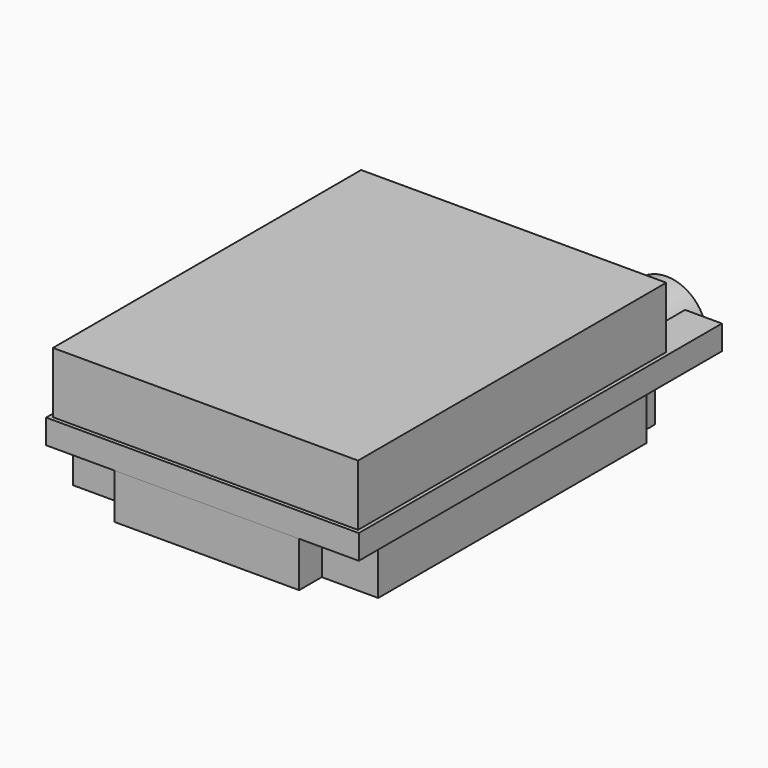
from build123d import *

# Parameters (mm, degrees)
F1_W     = 9.4
F1_H     = 4
F2_DEPTH = 1.6
F4_W     = 15.8
F4_H     = 1.85
F4_W_2   = 12.1
F5_DEPTH = 3
F6_R     = 2.625
F7_DEPTH = 4.96
F8_W     = 20
F8_H     = 25.25
F9_DEPTH = 4


with BuildPart() as f2:
    # F1 (on offset) → F2 (new body)
    with BuildSketch(Plane.XY.offset(3)):
        Polygon((0.85, 12.875), (-10.25, 12.875), (-10.25, -12.875), (10.25, -12.875), (10.25, 12.875), align=None)
        with Locations((5.55, 14.875)):
            Rectangle(F1_W, F1_H)
    extrude(amount=F2_DEPTH)



with BuildPart() as f5:
    # F4 (on offset) → F5 (new body)
    with BuildSketch(Plane.XY):
        Polygon((10, -10.975), (10, 11.025), (9.05, 11.025), (-6.75, 11.025), (-10, 11.025), (-10, -10.975), (-5.8, -10.975), (6.3, -10.975), align=None)
        with Locations((1.15, 11.95)):
            Rectangle(F4_W, F4_H)
        with Locations((0.25, -11.9)):
            Rectangle(F4_W_2, F4_H)
    extrude(amount=F5_DEPTH)


with BuildPart() as f2_1:
    add(f2.part)

    add(f5.part)  # F7 merges F5
    # F6 (on face) → F7 (join)
    with BuildSketch(Plane(origin=(0, 12.875, 0), x_dir=(-1, 0, 0), z_dir=(0, 1, 0))):
        with Locations((-5.855308, 2.875)):
            Circle(F6_R)
    extrude(amount=F7_DEPTH)

    # F8 (on face) → F9 (join)
    with BuildSketch(Plane.XY.offset(4.6)):
        Rectangle(F8_W, F8_H)
    extrude(amount=F9_DEPTH)


solid = f2_1.part
